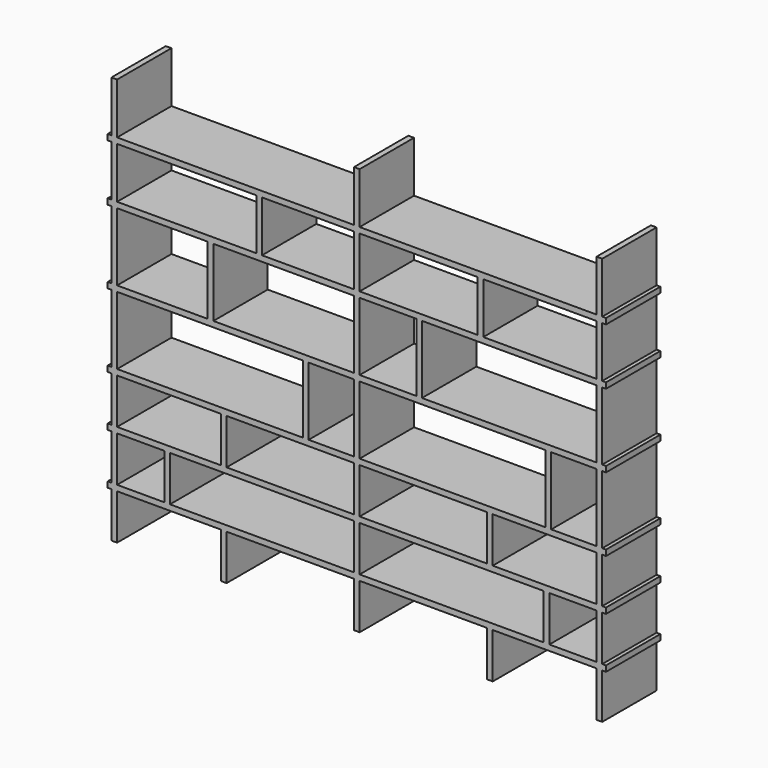
from build123d import *

# Parameters (mm, degrees)
F0_W     = 38.1
F0_H     = 342.9
F0_W_2   = 25.4
F0_H_2   = 38.1
F0_H_3   = 457.2
F0_H_4   = 304.8
F1_DEPTH = 457.2


with BuildPart() as f1:
    # F0 (on Front) → F1 (new body)
    with BuildSketch(Plane.XZ):
        with Locations((-10.4476883292, 2531.308583796)):
            Rectangle(F0_W, F0_H)
        with Locations((-42.1976883292, 2340.808583796)):
            Rectangle(F0_W_2, F0_H_2)
        with Locations((-10.4476883292, 2340.808583796)):
            Rectangle(F0_W, F0_H_2)
        Polygon((1602.4523116708, 2359.858583796), (8.6023116708, 2359.858583796), (8.6023116708, 2321.758583796), (945.4248547554, 2321.758583796), (983.5248547554, 2321.758583796), (1602.4523116708, 2321.758583796), align=None)
        with Locations((-10.4476883292, 2150.308583796)):
            Rectangle(F0_W, F0_H)
        with Locations((1621.5023116708, 2531.308583796)):
            Rectangle(F0_W, F0_H)
        with Locations((1621.5023116708, 2340.808583796)):
            Rectangle(F0_W, F0_H_2)
        Polygon((3234.4023116708, 2359.858583796), (1640.5523116708, 2359.858583796), (1640.5523116708, 2321.758583796), (2434.3023116708, 2321.758583796), (2472.4023116708, 2321.758583796), (3234.4023116708, 2321.758583796), align=None)
        with Locations((1621.5023116708, 2150.308583796)):
            Rectangle(F0_W, F0_H)
        with Locations((964.4748547554, 2150.308583796)):
            Rectangle(F0_W, F0_H)
        Polygon((945.4248547554, 1978.858583796), (8.6023116708, 1978.858583796), (8.6023116708, 1940.758583796), (618.2023116708, 1940.758583796), (656.3023116708, 1940.758583796), (1602.4523116708, 1940.758583796), (1602.4523116708, 1978.858583796), (983.5248547554, 1978.858583796), align=None)
        with Locations((-10.4476883292, 1959.808583796)):
            Rectangle(F0_W, F0_H_2)
        with Locations((-42.1976883292, 1959.808583796)):
            Rectangle(F0_W_2, F0_H_2)
        with Locations((-10.4476883292, 1712.158583796)):
            Rectangle(F0_W, F0_H_3)
        with Locations((637.2523116708, 1712.158583796)):
            Rectangle(F0_W, F0_H_3)
        with Locations((-10.4476883292, 1464.508583796)):
            Rectangle(F0_W, F0_H_2)
        Polygon((618.2023116708, 1483.558583796), (8.6023116708, 1483.558583796), (8.6023116708, 1445.458583796), (1259.5523116708, 1445.458583796), (1297.6523116708, 1445.458583796), (1602.4523116708, 1445.458583796), (1602.4523116708, 1483.558583796), (656.3023116708, 1483.558583796), align=None)
        with Locations((-10.4476883292, 1216.858583796)):
            Rectangle(F0_W, F0_H_3)
        with Locations((-42.1976883292, 1464.508583796)):
            Rectangle(F0_W_2, F0_H_2)
        with Locations((-42.1976883292, 969.208583796)):
            Rectangle(F0_W_2, F0_H_2)
        with Locations((-42.1976883292, 626.308583796)):
            Rectangle(F0_W_2, F0_H_2)
        with Locations((-10.4476883292, 111.958583796)):
            Rectangle(F0_W, F0_H_4)
        with Locations((-42.1976883292, 283.408583796)):
            Rectangle(F0_W_2, F0_H_2)
        with Locations((-10.4476883292, 283.408583796)):
            Rectangle(F0_W, F0_H_2)
        with Locations((-10.4476883292, 454.858583796)):
            Rectangle(F0_W, F0_H_4)
        with Locations((-10.4476883292, 626.308583796)):
            Rectangle(F0_W, F0_H_2)
        with Locations((-10.4476883292, 797.758583796)):
            Rectangle(F0_W, F0_H_4)
        Polygon((707.1023116708, 645.358583796), (8.6023116708, 645.358583796), (8.6023116708, 607.258583796), (326.1023116708, 607.258583796), (364.2023116708, 607.258583796), (1602.4523116708, 607.258583796), (1640.5523116708, 607.258583796), (2878.8023116708, 607.258583796), (2916.9023116708, 607.258583796), (3234.4023116708, 607.258583796), (3234.4023116708, 645.358583796), (2535.9023116708, 645.358583796), (2497.8023116708, 645.358583796), (1640.5523116708, 645.358583796), (1602.4523116708, 645.358583796), (745.2023116708, 645.358583796), align=None)
        Polygon((1259.5523116708, 988.258583796), (8.6023116708, 988.258583796), (8.6023116708, 950.158583796), (707.1023116708, 950.158583796), (745.2023116708, 950.158583796), (1602.4523116708, 950.158583796), (1602.4523116708, 988.258583796), (1297.6523116708, 988.258583796), align=None)
        with Locations((726.1523116708, 797.758583796)):
            Rectangle(F0_W, F0_H_4)
        with Locations((-10.4476883292, 969.208583796)):
            Rectangle(F0_W, F0_H_2)
        with Locations((345.1523116708, 454.858583796)):
            Rectangle(F0_W, F0_H_4)
        Polygon((326.1023116708, 302.458583796), (8.6023116708, 302.458583796), (8.6023116708, 264.358583796), (707.1023116708, 264.358583796), (745.2023116708, 264.358583796), (1602.4523116708, 264.358583796), (1640.5523116708, 264.358583796), (2497.8023116708, 264.358583796), (2535.9023116708, 264.358583796), (3234.4023116708, 264.358583796), (3234.4023116708, 302.458583796), (2916.9023116708, 302.458583796), (2878.8023116708, 302.458583796), (1640.5523116708, 302.458583796), (1602.4523116708, 302.458583796), (364.2023116708, 302.458583796), align=None)
        with Locations((726.1523116708, 111.958583796)):
            Rectangle(F0_W, F0_H_4)
        with Locations((1278.6023116708, 1216.858583796)):
            Rectangle(F0_W, F0_H_3)
        with Locations((1621.5023116708, 1959.808583796)):
            Rectangle(F0_W, F0_H_2)
        with Locations((1621.5023116708, 1712.158583796)):
            Rectangle(F0_W, F0_H_3)
        with Locations((1621.5023116708, 1464.508583796)):
            Rectangle(F0_W, F0_H_2)
        with Locations((1621.5023116708, 1216.858583796)):
            Rectangle(F0_W, F0_H_3)
        with Locations((1621.5023116708, 969.208583796)):
            Rectangle(F0_W, F0_H_2)
        with Locations((1621.5023116708, 797.758583796)):
            Rectangle(F0_W, F0_H_4)
        with Locations((1621.5023116708, 454.858583796)):
            Rectangle(F0_W, F0_H_4)
        with Locations((1621.5023116708, 111.958583796)):
            Rectangle(F0_W, F0_H_4)
        with Locations((2040.6023116708, 1712.158583796)):
            Rectangle(F0_W, F0_H_3)
        Polygon((2434.3023116708, 1978.858583796), (1640.5523116708, 1978.858583796), (1640.5523116708, 1940.758583796), (2021.5523116708, 1940.758583796), (2059.6523116708, 1940.758583796), (3234.4023116708, 1940.758583796), (3234.4023116708, 1978.858583796), (2472.4023116708, 1978.858583796), align=None)
        with Locations((2453.3523116708, 2150.308583796)):
            Rectangle(F0_W, F0_H)
        with Locations((3253.4523116708, 2531.308583796)):
            Rectangle(F0_W, F0_H)
        with Locations((3253.4523116708, 2150.308583796)):
            Rectangle(F0_W, F0_H)
        with Locations((3253.4523116708, 1712.158583796)):
            Rectangle(F0_W, F0_H_3)
        with Locations((2910.5523116708, 1216.858583796)):
            Rectangle(F0_W, F0_H_3)
        Polygon((2021.5523116708, 1483.558583796), (1640.5523116708, 1483.558583796), (1640.5523116708, 1445.458583796), (2891.5023116708, 1445.458583796), (2929.6023116708, 1445.458583796), (3234.4023116708, 1445.458583796), (3234.4023116708, 1483.558583796), (2059.6523116708, 1483.558583796), align=None)
        Polygon((2891.5023116708, 988.258583796), (1640.5523116708, 988.258583796), (1640.5523116708, 950.158583796), (2497.8023116708, 950.158583796), (2535.9023116708, 950.158583796), (3234.4023116708, 950.158583796), (3234.4023116708, 988.258583796), (2929.6023116708, 988.258583796), align=None)
        with Locations((2516.8523116708, 797.758583796)):
            Rectangle(F0_W, F0_H_4)
        with Locations((2897.8523116708, 454.858583796)):
            Rectangle(F0_W, F0_H_4)
        with Locations((2516.8523116708, 111.958583796)):
            Rectangle(F0_W, F0_H_4)
        with Locations((3253.4523116708, 111.958583796)):
            Rectangle(F0_W, F0_H_4)
        with Locations((3253.4523116708, 283.408583796)):
            Rectangle(F0_W, F0_H_2)
        with Locations((3285.2023116708, 283.408583796)):
            Rectangle(F0_W_2, F0_H_2)
        with Locations((3253.4523116708, 454.858583796)):
            Rectangle(F0_W, F0_H_4)
        with Locations((3285.2023116708, 626.308583796)):
            Rectangle(F0_W_2, F0_H_2)
        with Locations((3253.4523116708, 626.308583796)):
            Rectangle(F0_W, F0_H_2)
        with Locations((3253.4523116708, 797.758583796)):
            Rectangle(F0_W, F0_H_4)
        with Locations((3253.4523116708, 969.208583796)):
            Rectangle(F0_W, F0_H_2)
        with Locations((3253.4523116708, 1216.858583796)):
            Rectangle(F0_W, F0_H_3)
        with Locations((3253.4523116708, 1464.508583796)):
            Rectangle(F0_W, F0_H_2)
        with Locations((3285.2023116708, 969.208583796)):
            Rectangle(F0_W_2, F0_H_2)
        with Locations((3285.2023116708, 1464.508583796)):
            Rectangle(F0_W_2, F0_H_2)
        with Locations((3253.4523116708, 1959.808583796)):
            Rectangle(F0_W, F0_H_2)
        with Locations((3285.2023116708, 1959.808583796)):
            Rectangle(F0_W_2, F0_H_2)
        with Locations((3253.4523116708, 2340.808583796)):
            Rectangle(F0_W, F0_H_2)
        with Locations((3285.2023116708, 2340.808583796)):
            Rectangle(F0_W_2, F0_H_2)
    extrude(amount=F1_DEPTH)


solid = f1.part
